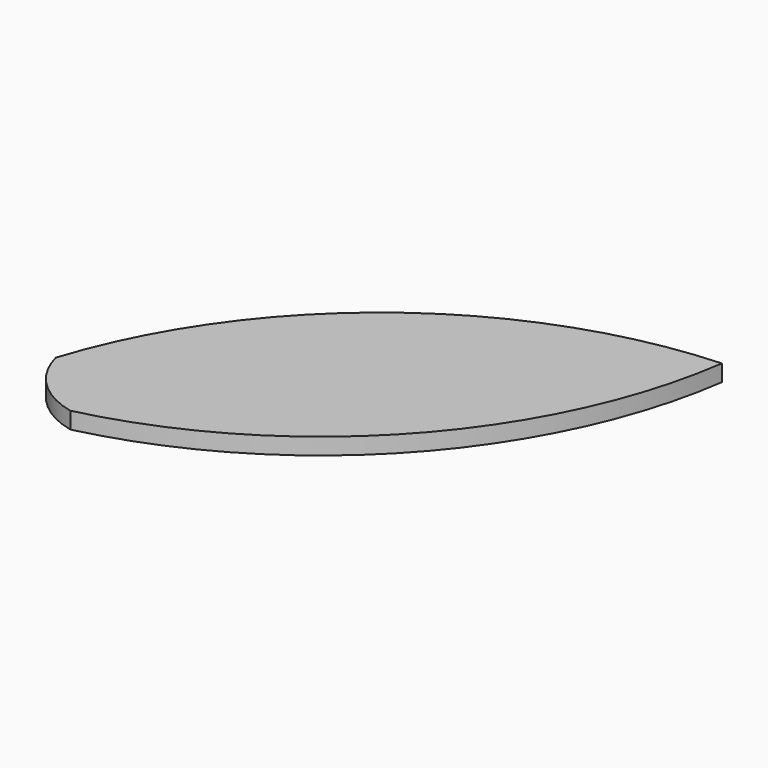
from build123d import *

# Parameters (mm, degrees)
F1_DEPTH = 5.08


with BuildPart() as f1:
    # F0 (on Top) → F1 (new body)
    with BuildSketch(Plane.XY):
        with BuildLine():
            ThreePointArc((-40.762696, -56.627564), (30.39397, -14.738454), (65.63098, 59.936319))
            ThreePointArc((65.63098, 59.936319), (-12.698222, 31.013614), (-60.689886, -37.314908))
            ThreePointArc((-60.689886, -37.314908), (-53.47405, -49.806429), (-40.762696, -56.627564))
        make_face()
    extrude(amount=F1_DEPTH)


solid = f1.part
